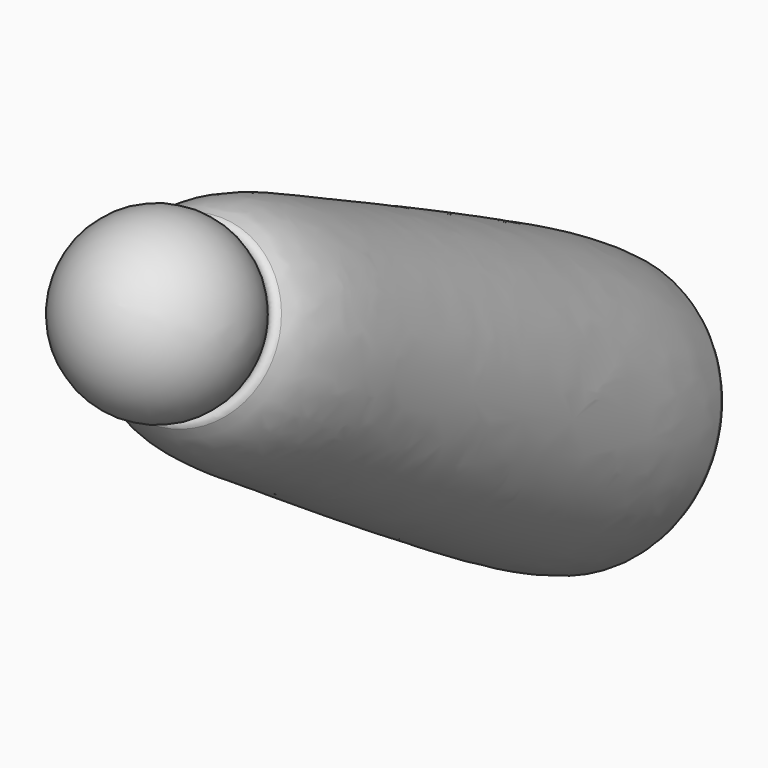
from build123d import *

# Parameters (mm, degrees)
FILLET086_R             = 6
FILLET087_R             = 3
BODY052_PITCH_ANGLE     = -30
BODY052_PLACEMENT_ANGLE = -85


with BuildPart() as part:
    # Sketch175 → Revolution090 (revolve)
    with BuildSketch(Plane.XY):
        with BuildLine():
            Line((15.9442, 0), (306.848053, 0))
            add(Edge.make_bspline(
                [(306.848053, 0), (324.317413, 42.311157), (231.745069, 46.553256), (127.654996, 54.056504), (-18.918443, 56.908137), (15.9442, 0)],
                knots=[0, 0, 0, 0, 0.333333, 0.666667, 1, 1, 1, 1], degree=3))
        make_face()
    revolve(axis=Axis((0, 0, 0), (1, 0, 0)))

    # Sketch176 → Groove084 (revolve, cut)
    with BuildSketch(Plane.XY):
        with BuildLine():
            Line((-60, 0), (60, 0))
            ThreePointArc((60, 0), (0, 60), (-60, 0))
        make_face()
    revolve(axis=Axis((0, 0, 0), (1, 0, 0)), mode=Mode.SUBTRACT)

    # Fillet086
    fillet086_edges = [part.edges().sort_by_distance(p)[0] for p in [
        (33.106232, -50.039758, 0),
    ]]
    fillet(fillet086_edges, radius=FILLET086_R)

    # Sketch177 → Groove085 (revolve, cut)
    with BuildSketch(Plane.XY):
        with BuildLine():
            Line((285, 0), (355, 0))
            ThreePointArc((355, 0), (320, 35), (285, 0))
        make_face()
    revolve(axis=Axis((0, 0, 0), (1, 0, 0)), mode=Mode.SUBTRACT)

    # Fillet087
    fillet087_edges = [part.edges().sort_by_distance(p)[0] for p in [
        (304.668851, -31.463564, 0),
    ]]
    fillet(fillet087_edges, radius=FILLET087_R)

    # Sketch177 → Revolution091 (revolve)
    with BuildSketch(Plane.XY):
        with BuildLine():
            Line((285, 0), (355, 0))
            ThreePointArc((355, 0), (320, 35), (285, 0))
        make_face()
    revolve(axis=Axis((0, 0, 0), (1, 0, 0)))


with BuildPart() as part_1:
    # Body052 pitch: moved
    add(part.part.rotate(Axis((0, 0, 0), (0, 1, 0)), BODY052_PITCH_ANGLE))


with BuildPart() as part_2:
    # Body052 placement: moved
    add(part_1.part.moved(Location((184, 1454.018312, 0.388141))).rotate(Axis((184, 1454.018312, 0.388141), (0, 0, 1)), BODY052_PLACEMENT_ANGLE))


solid = part_2.part
